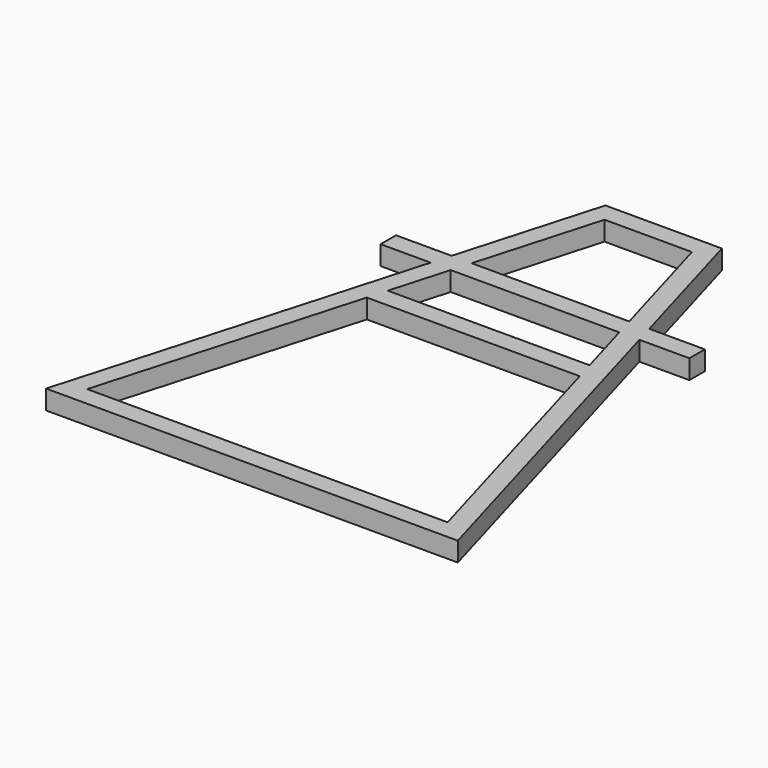
from build123d import *

# Parameters (mm, degrees)
F1_DEPTH = 300


with BuildPart() as f1:
    # F0 (on Top) → F1 (new body)
    with BuildSketch(Plane.XY):
        Polygon((-2400, 2200), (-1622.641685, 2200), (-3200, -3300), (0, -3300), (0, -3000), (-2801.868553, -3000), (-1654.69887, 1000), (0, 1000), (0, 1300), (-1568.661143, 1300), (-1310.547965, 2200), (0, 2200), (0, 2500), (-1224.510238, 2500), (-679.604639, 4400), (0, 4400), (0, 4700), (-905.660633, 4700), (-1536.603959, 2500), (-2400, 2500), align=None)
    extrude(amount=F1_DEPTH)

    # F2: F1 across plane


with BuildPart() as f1_1:
    add(f1.part)
    add(f1.part.mirror(Plane.YZ))


solid = f1_1.part
